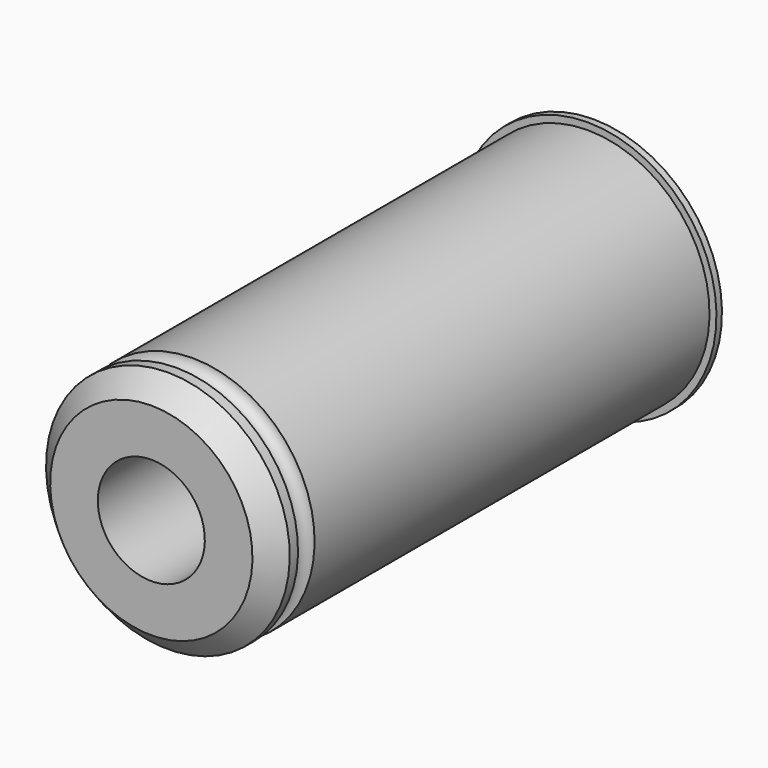
from build123d import *


with BuildPart() as f2:
    # F0 (on Right) → F2 (revolve)
    with BuildSketch(Plane.YZ):
        with BuildLine():
            Line((1.143, 4.4831), (0.762, 4.4831))
            Line((0.762, 4.4831), (0, 3.7211))
            Line((0, 3.7211), (0, 1.9685))
            Line((0, 1.9685), (17.145, 1.9685))
            Line((17.145, 1.9685), (17.145, 0))
            Line((17.145, 0), (20.32, 0))
            Line((20.32, 0), (20.32, 4.4831))
            Line((20.32, 4.4831), (20.32, 4.7371))
            Line((20.32, 4.7371), (20.066, 4.7371))
            Line((20.066, 4.7371), (20.066, 4.4831))
            Line((20.066, 4.4831), (1.905, 4.4831))
            ThreePointArc((1.905, 4.4831), (1.524, 4.1021), (1.143, 4.4831))
        make_face()
    revolve(axis=Axis((0, 4.189039, 0), (0, 1, 0)))


solid = f2.part
